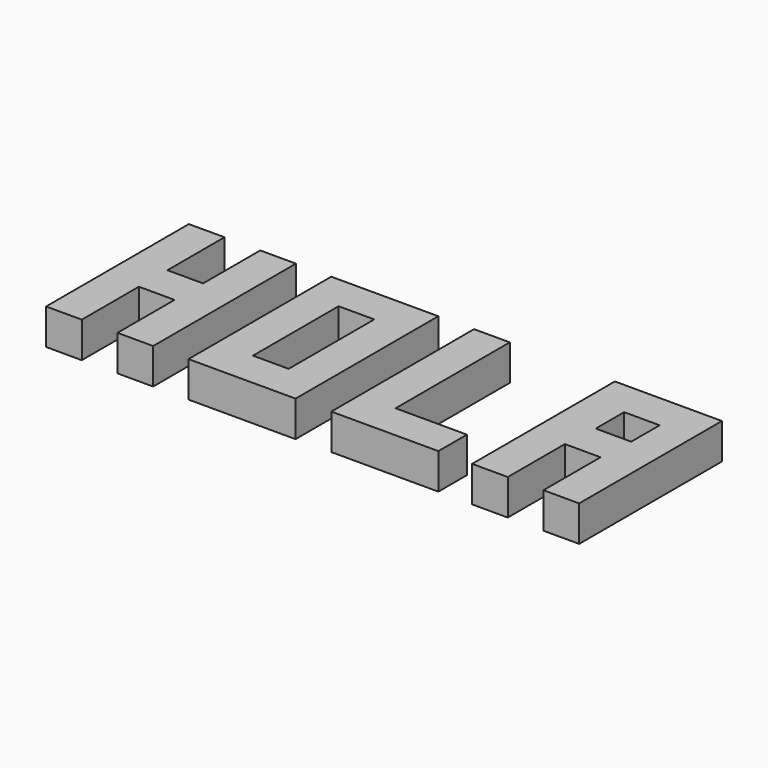
from build123d import *

# Parameters (mm, degrees)
PAD001_DEPTH  = 10
SKETCH005_W   = 30
SKETCH005_H   = 50
SKETCH005_W_2 = 10
SKETCH005_H_2 = 30
PAD_DEPTH     = 10
PAD002_DEPTH  = 10
SKETCH012_W   = 9.946716
SKETCH012_H   = 9.946716
PAD003_DEPTH  = 10


with BuildPart() as body:
    # Sketch → Pad001 (new body)
    with BuildSketch(Plane.XY):
        Polygon((0, 50), (0, 0), (10, 0), (10, 20), (20, 20), (20, 0), (30, 0), (30, 50), (20, 50), (20, 30), (10, 30), (10, 50), align=None)
    extrude(amount=PAD001_DEPTH)


with BuildPart() as body001:
    # Sketch005 → Pad (new body)
    with BuildSketch(Plane.XY):
        with Locations((54.898264, 25)):
            Rectangle(SKETCH005_W, SKETCH005_H)
        with Locations((54.903865, 25.072376)):
            Rectangle(SKETCH005_W_2, SKETCH005_H_2, mode=Mode.SUBTRACT)
    extrude(amount=PAD_DEPTH)


with BuildPart() as body002:
    # Sketch008 → Pad002 (new body)
    with BuildSketch(Plane.XY):
        Polygon((79.836866, 50.101835), (79.836866, 0.101835), (109.836866, 0.101835), (109.836866, 10.101835), (89.836866, 10.101835), (89.836866, 50.101835), align=None)
    extrude(amount=PAD002_DEPTH)


with BuildPart() as body003:
    # Sketch012 → Pad003 (new body)
    with BuildSketch(Plane.XY):
        Polygon((119.364758, 0), (119.364758, 50), (149.364758, 50), (149.364758, 0), (139.364758, 0), (139.364758, 19.99831), (129.364758, 19.99831), (129.364758, 0), align=None)
        with Locations((135.017212, 34.926586)):
            Rectangle(SKETCH012_W, SKETCH012_H, mode=Mode.SUBTRACT)
    extrude(amount=PAD003_DEPTH)


solid = Compound([body.part, body001.part, body002.part, body003.part])
